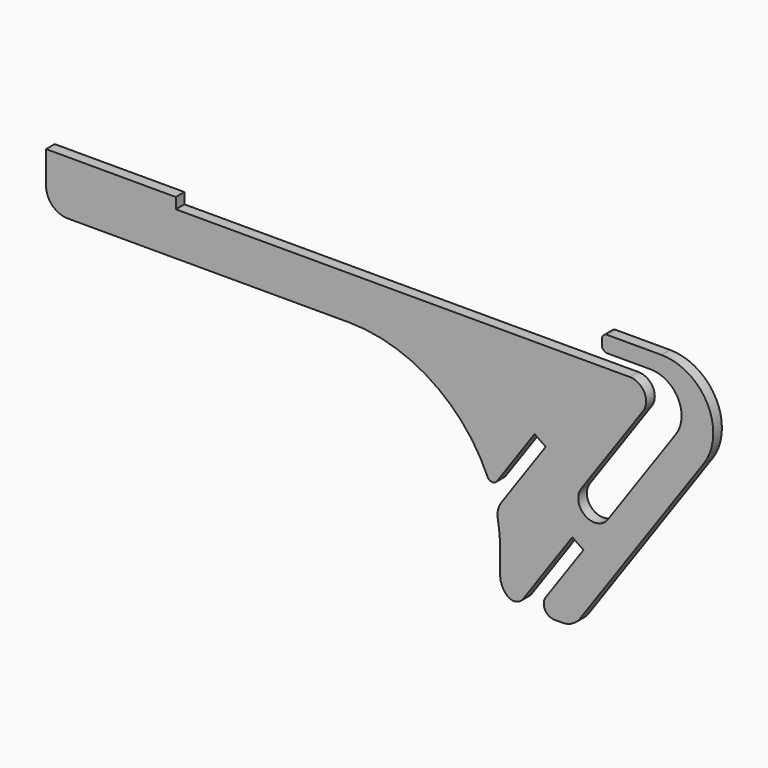
from build123d import *

# Parameters (mm, degrees)
F1_DEPTH = 6.35


with BuildPart() as f1:
    # F0 (on Front) → F1 (new body)
    with BuildSketch(Plane.XZ):
        with BuildLine():
            ThreePointArc((-16.207173, 3.88928), (-11.139594, 1.963905), (-6.432232, 4.65243))
            Line((-6.432232, 4.65243), (22.635664, 46.165687))
            Line((22.635664, 46.165687), (29.137683, 41.612924))
            Line((29.137683, 41.612924), (6.996621, 9.99221))
            ThreePointArc((6.996621, 9.99221), (6.565718, 3.417896), (12.198237, 0))
            Line((12.198237, 0), (16.644554, 0))
            ThreePointArc((16.644554, 0), (22.508762, 1.434962), (27.047785, 5.415579))
            Line((27.047785, 5.415579), (99.891993, 109.447889))
            ThreePointArc((99.891993, 109.447889), (101.960325, 141.004545), (74.924279, 157.41042))
            Line((74.924279, 157.41042), (43.174279, 157.41042))
            ThreePointArc((43.174279, 157.41042), (40.929215, 156.480484), (39.999279, 154.23542))
            Line((39.999279, 154.23542), (39.999279, 151.06042))
            ThreePointArc((39.999279, 151.06042), (40.929215, 148.815356), (43.174279, 147.88542))
            Line((43.174279, 147.88542), (68.574279, 147.88542))
            ThreePointArc((68.574279, 147.88542), (84.724494, 138.085229), (83.488958, 119.234589))
            Line((83.488958, 119.234589), (43.424644, 62.016819))
            ThreePointArc((43.424644, 62.016819), (30.158905, 59.677711), (27.819797, 72.94345))
            Line((27.819797, 72.94345), (64.241901, 124.959605))
            ThreePointArc((64.241901, 124.959605), (64.888256, 134.821076), (56.439478, 139.94792))
            Line((56.439478, 139.94792), (-210.260522, 139.94792))
            Line((-210.260522, 139.94792), (-210.260522, 146.29792))
            Line((-210.260522, 146.29792), (-286.460522, 146.29792))
            Line((-286.460522, 146.29792), (-286.460522, 139.94792))
            Line((-286.460522, 139.94792), (-286.460522, 127.24792))
            ThreePointArc((-286.460522, 127.24792), (-282.740778, 118.267664), (-273.760522, 114.54792))
            Line((-273.760522, 114.54792), (-108.660522, 114.54792))
            ThreePointArc((-108.660522, 114.54792), (-59.976341, 100.032465), (-27.190316, 61.226222))
            ThreePointArc((-27.190316, 61.226222), (-24.596253, 59.337599), (-21.679858, 60.675771))
            Line((-21.679858, 60.675771), (0.477715, 92.320065))
            Line((0.477715, 92.320065), (6.979734, 87.767302))
            Line((6.979734, 87.767302), (-19.018429, 50.638077))
            ThreePointArc((-19.018429, 50.638077), (-21.015023, 46.098531), (-21.120863, 41.140439))
            ThreePointArc((-21.120863, 41.140439), (-20.10126, 33.423984), (-19.760522, 25.64792))
            Line((-19.760522, 25.64792), (-19.760522, 12.7))
            ThreePointArc((-19.760522, 12.7), (-18.838732, 7.949867), (-16.207173, 3.88928))
        make_face()
    extrude(amount=F1_DEPTH)


solid = f1.part
